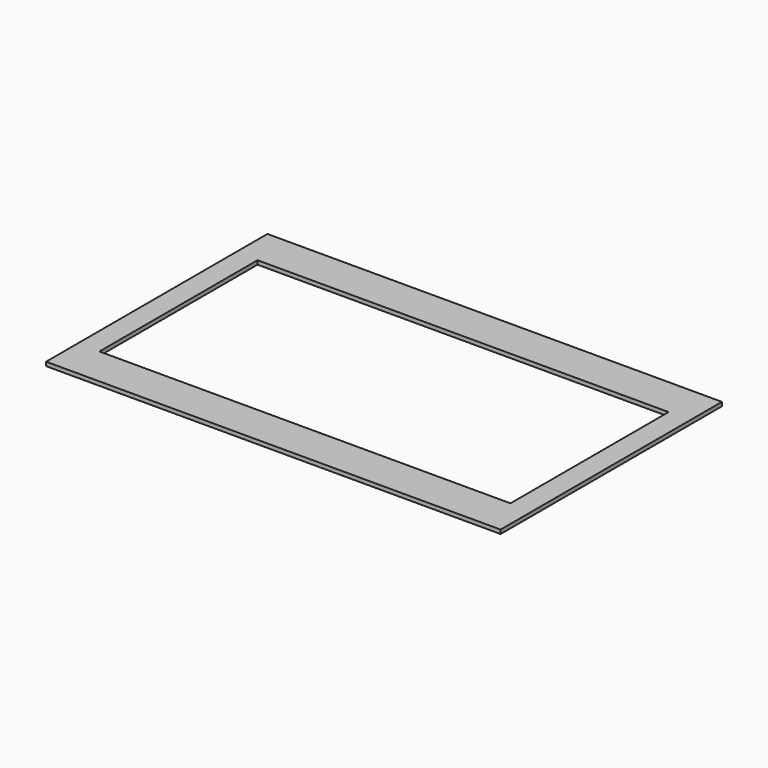
from build123d import *

# Parameters (mm, degrees)
SKETCH_W   = 115
SKETCH_H   = 70
SKETCH_W_2 = 104
SKETCH_H_2 = 50
PAD_DEPTH  = 1


with BuildPart() as part:
    # Sketch → Pad (new body)
    with BuildSketch(Plane.XY):
        Rectangle(SKETCH_W, SKETCH_H)
        Rectangle(SKETCH_W_2, SKETCH_H_2, mode=Mode.SUBTRACT)
    extrude(amount=PAD_DEPTH)


solid = part.part
